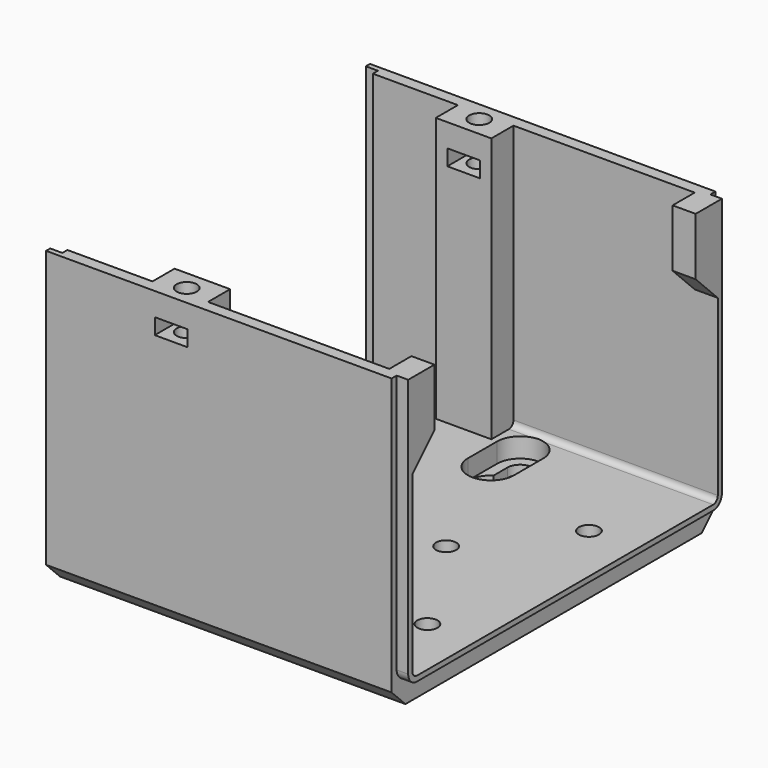
from build123d import *

# Parameters (mm, degrees)
PAD018_DEPTH         = 60
POCKET023_DEPTH      = 2.101
SKETCH071_W          = 9.65
SKETCH071_H          = 4.8
PAD020_DEPTH         = 46
SKETCH073_R          = 1.75
POCKET026_DEPTH      = 46.001
SKETCH069_R          = 1.75
POCKET024_DEPTH      = 5.001
SKETCH070_R          = 3
POCKET025_DEPTH      = 2.951
POCKET042_DEPTH      = 49.401
SKETCH072_W          = 5.65
SKETCH072_H          = 2.75
POCKET027_DEPTH      = 35.151
POCKET027_DEPTH_BACK = 35.151
PAD019_DEPTH         = 2
PAD024_DEPTH         = 4


with BuildPart() as part:
    # Sketch066 → Pad018 (new body)
    with BuildSketch(Plane.YZ.offset(-21.698)):
        with BuildLine():
            ThreePointArc((-33.15, 1), (-32.857107, 0.292893), (-32.15, 0))
            Line((-32.15, 0), (32.15, 0))
            ThreePointArc((32.15, 0), (32.857107, 0.292893), (33.15, 1))
            Line((33.15, 46), (33.15, 1))
            Line((33.15, 46), (35.15, 46))
            Line((35.15, 46), (35.15, -2))
            Line((35.15, -2), (32.15, -5))
            Line((32.15, -5), (-32.15, -5))
            Line((-32.15, -5), (-35.15, -2))
            Line((-35.15, -2), (-35.15, 46))
            Line((-35.15, 46), (-33.15, 46))
            Line((-33.15, 46), (-33.15, 1))
        make_face()
    extrude(amount=PAD018_DEPTH)

    # Sketch067 → Pocket023 (cut, through all)
    with BuildSketch(Plane.YZ.offset(-19.598)):
        with BuildLine():
            Line((-34.25, 46), (-34.25, 1))
            ThreePointArc((-34.25, 1), (-33.634924, -0.484924), (-32.15, -1.1))
            Line((-32.15, -1.1), (32.15, -1.1))
            ThreePointArc((32.15, -1.1), (33.634924, -0.484924), (34.25, 1))
            Line((34.25, 1), (34.25, 46))
            Line((34.25, 46), (33.15, 46))
            Line((33.15, 46), (33.15, 1))
            ThreePointArc((32.15, 0), (32.857107, 0.292893), (33.15, 1))
            Line((-32.15, 0), (32.15, 0))
            ThreePointArc((-33.15, 1), (-32.857107, 0.292893), (-32.15, 0))
            Line((-33.15, 46), (-33.15, 1))
            Line((-34.25, 46), (-33.15, 46))
        make_face()
    extrude(amount=-POCKET023_DEPTH, mode=Mode.SUBTRACT)

    # Sketch071 → Pad020 (join)
    with BuildSketch(Plane.XY):
        with Locations((0, 30.75)):
            Rectangle(SKETCH071_W, SKETCH071_H)
        with Locations((0, -30.75)):
            Rectangle(SKETCH071_W, SKETCH071_H)
    extrude(amount=PAD020_DEPTH)

    # Sketch073 → Pocket026 (cut, through all)
    with BuildSketch(Plane.XY):
        with Locations((0, 31.75)):
            Circle(SKETCH073_R)
        with Locations((0, -31.75)):
            Circle(SKETCH073_R)
    extrude(amount=POCKET026_DEPTH, mode=Mode.SUBTRACT)

    # Sketch069 → Pocket024 (cut, through all)
    with BuildSketch(Plane.XY):
        with Locations((-15.348, 15.621)):
            Circle(SKETCH069_R)
        with Locations((31.952, 15.621)):
            Circle(SKETCH069_R)
        with Locations((19.652, 0)):
            Circle(SKETCH069_R)
        with Locations((31.952, -19.431)):
            Circle(SKETCH069_R)
        with Locations((-15.348, -19.431)):
            Circle(SKETCH069_R)
        with BuildLine():
            ThreePointArc((7.625, 25.35), (9.825, 18.009341), (12.025, 25.35))
            Line((12.025, 28.35), (12.025, 25.35))
            ThreePointArc((12.025, 28.35), (9.825, 30.549987), (7.625, 28.35))
            Line((7.625, 28.35), (7.625, 25.35))
        make_face()
        with BuildLine():
            ThreePointArc((12.025, -25.35), (9.825, -18.009341), (7.625, -25.35))
            Line((7.625, -25.35), (7.625, -28.35))
            ThreePointArc((7.625, -28.35), (9.825, -30.549988), (12.025, -28.35))
            Line((12.025, -25.35), (12.025, -28.35))
        make_face()
    extrude(amount=-POCKET024_DEPTH, mode=Mode.SUBTRACT)

    # Sketch070 → Pocket025 (cut, through all)
    with BuildSketch(Plane.XY.offset(-2.05)):
        with Locations((-15.348, 15.621)):
            Circle(SKETCH070_R)
        with Locations((19.652, 0)):
            Circle(SKETCH070_R)
        with Locations((31.952, 15.621)):
            Circle(SKETCH070_R)
        with Locations((-15.348, -19.431)):
            Circle(SKETCH070_R)
        with Locations((31.952, -19.431)):
            Circle(SKETCH070_R)
    extrude(amount=-POCKET025_DEPTH, mode=Mode.SUBTRACT)

    # Sketch → Pocket042 (cut, through all)
    with BuildSketch(Plane.XY.offset(-3.4)):
        with BuildLine():
            ThreePointArc((13.825, 28.35), (9.825, 32.350018), (5.825, 28.35))
            Line((5.825, 28.35), (5.825, 22.009341))
            Line((5.825, 22.009341), (13.825, 22.009341))
            Line((13.825, 22.009341), (13.825, 28.35))
        make_face()
        with BuildLine():
            ThreePointArc((5.825, -28.349974), (9.824987, -32.349956), (13.825, -28.35))
            Line((13.825, -22.009341), (13.825, -28.35))
            Line((5.825, -22.009341), (13.825, -22.009341))
            Line((5.825, -28.349974), (5.825, -22.009341))
        make_face()
    extrude(amount=POCKET042_DEPTH, mode=Mode.SUBTRACT)

    # Sketch072 → Pocket027 (cut, two sides)
    with BuildSketch(Plane.XZ) as pocket027_sk:
        with Locations((0, 40.625)):
            Rectangle(SKETCH072_W, SKETCH072_H)
    extrude(amount=-POCKET027_DEPTH, mode=Mode.SUBTRACT)
    extrude(pocket027_sk.sketch, amount=POCKET027_DEPTH_BACK, mode=Mode.SUBTRACT)

    # Sketch074 → Pad019 (join)
    with BuildSketch(Plane.YZ.offset(38.302)):
        with BuildLine():
            Line((-34.05, 46), (-34.05, 1))
            ThreePointArc((-34.05, 1), (-33.493503, -0.343503), (-32.15, -0.9))
            Line((-32.15, -0.9), (32.15, -0.9))
            ThreePointArc((32.15, -0.9), (33.493503, -0.343503), (34.05, 1))
            Line((34.05, 1), (34.05, 46))
            Line((33.15, 46), (34.05, 46))
            Line((33.15, 1), (33.15, 46))
            ThreePointArc((32.15, 0), (32.857107, 0.292893), (33.15, 1))
            Line((-32.15, 0), (32.15, 0))
            ThreePointArc((-33.15, 1), (-32.857107, 0.292893), (-32.15, 0))
            Line((-33.15, 46), (-33.15, 1))
            Line((-34.05, 46), (-33.15, 46))
        make_face()
    extrude(amount=PAD019_DEPTH)

    # Sketch082 → Pad024 (join)
    with BuildSketch(Plane.YZ.offset(40.302)):
        Polygon((-33.15, 46), (-28.35, 46), (-28.35, 36), (-33.15, 31.2), align=None)
        Polygon((33.15, 46), (28.35, 46), (28.35, 36), (33.15, 31.2), align=None)
    extrude(amount=-PAD024_DEPTH)


solid = part.part
